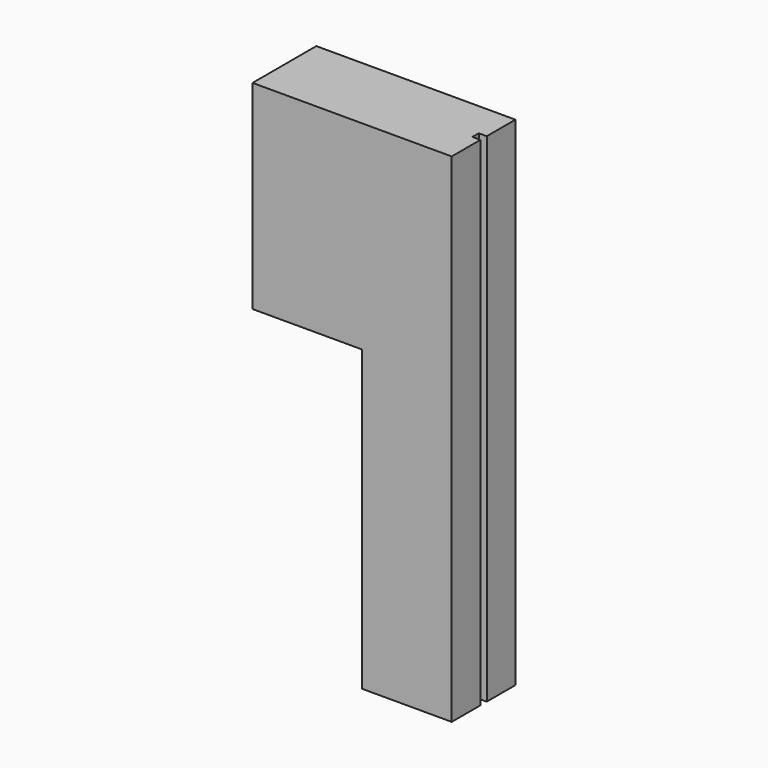
from build123d import *

# Parameters (mm, degrees)
F1_DEPTH = 4
F3_DEPTH = 25


with BuildPart() as f1:
    # F0 (on Front) → F1 (new body)
    with BuildSketch(Plane.XZ):
        Polygon((10.934058, -4.147178), (10.934058, 5.852822), (2.934058, 5.852822), (-1.065942, 5.852822), (-9.065942, 5.852822), (-9.065942, -4.147178), (-3.565942, -4.147178), (-3.565942, -19.147178), (5.434058, -19.147178), (5.434058, -4.147178), align=None)
    extrude(amount=F1_DEPTH)

    # F2 (on face) → F3 (cut)
    with BuildSketch(Plane.XY.offset(5.852822)):
        Polygon((10.934058, -4), (10.934058, 0), (0.934058, 0), (0.934058, -1.8), (0.534058, -1.8), (0.534058, -2.2), (0.934058, -2.2), (0.934058, -4), align=None)
    extrude(amount=-F3_DEPTH, mode=Mode.SUBTRACT)


solid = f1.part
